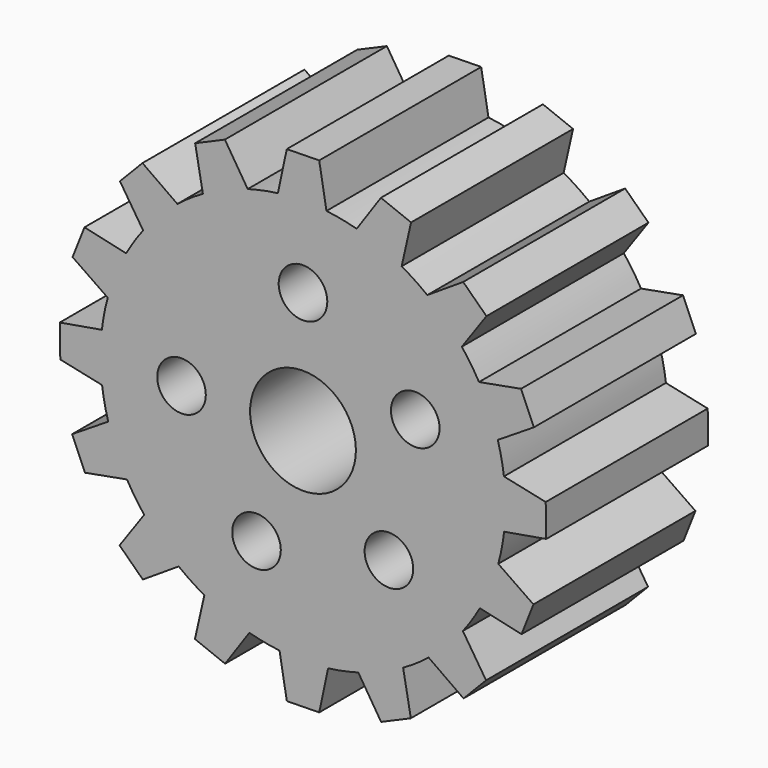
from build123d import *

# Parameters (mm, degrees)
F0_R     = 3
F0_R_2   = 6.530293
F1_DEPTH = 25


with BuildPart() as f1:
    # F0 (on Front) → F1 (new body)
    with BuildSketch(Plane.XZ):
        with BuildLine():
            ThreePointArc((24.831743, -2.895608), (24.9579, -1.450246), (25, 0))
            ThreePointArc((25, 0), (24.95158, 1.555208), (24.806506, 3.104392))
            ThreePointArc((24.806506, 3.104392), (24.498901, 4.980347), (24.04964, 6.827504))
            ThreePointArc((24.04964, 6.827504), (23.056544, 9.664149), (21.730224, 12.361123))
            ThreePointArc((21.730224, 12.361123), (20.728137, 13.976564), (19.606198, 15.51119))
            ThreePointArc((19.606198, 15.51119), (17.603159, 17.751867), (15.345712, 19.735986))
            ThreePointArc((15.345712, 19.735986), (13.801702, 20.844976), (12.177889, 21.833438))
            ThreePointArc((12.177889, 21.833438), (9.469853, 23.137024), (6.624954, 24.106223))
            ThreePointArc((6.624954, 24.106223), (4.774083, 24.539929), (2.895608, 24.831743))
            ThreePointArc((2.895608, 24.831743), (-0.105152, 24.999779), (-3.104392, 24.806506))
            ThreePointArc((-3.104392, 24.806506), (-4.980347, 24.498901), (-6.827504, 24.04964))
            ThreePointArc((-6.827504, 24.04964), (-9.664149, 23.056544), (-12.361123, 21.730224))
            ThreePointArc((-12.361123, 21.730224), (-13.976564, 20.728137), (-15.51119, 19.606198))
            ThreePointArc((-15.51119, 19.606198), (-17.751867, 17.603159), (-19.735986, 15.345712))
            ThreePointArc((-19.735986, 15.345712), (-20.844976, 13.801702), (-21.833438, 12.177889))
            ThreePointArc((-21.833438, 12.177889), (-23.137024, 9.469853), (-24.106223, 6.624954))
            ThreePointArc((-24.106223, 6.624954), (-24.539929, 4.774083), (-24.831743, 2.895608))
            ThreePointArc((-24.831743, 2.895608), (-24.999779, -0.105152), (-24.806506, -3.104392))
            ThreePointArc((-24.806506, -3.104392), (-24.498901, -4.980347), (-24.04964, -6.827504))
            ThreePointArc((-24.04964, -6.827504), (-23.056544, -9.664149), (-21.730224, -12.361123))
            ThreePointArc((-21.730224, -12.361123), (-20.728137, -13.976564), (-19.606198, -15.51119))
            ThreePointArc((-19.606198, -15.51119), (-17.603159, -17.751867), (-15.345712, -19.735986))
            ThreePointArc((-15.345712, -19.735986), (-13.801702, -20.844976), (-12.177889, -21.833438))
            ThreePointArc((-12.177889, -21.833438), (-9.469853, -23.137024), (-6.624954, -24.106223))
            ThreePointArc((-6.624954, -24.106223), (-4.774083, -24.539929), (-2.895608, -24.831743))
            ThreePointArc((-2.895608, -24.831743), (0.105152, -24.999779), (3.104392, -24.806506))
            ThreePointArc((3.104392, -24.806506), (4.980347, -24.498901), (6.827504, -24.04964))
            ThreePointArc((6.827504, -24.04964), (9.664149, -23.056544), (12.361123, -21.730224))
            ThreePointArc((12.361123, -21.730224), (13.976564, -20.728137), (15.51119, -19.606198))
            ThreePointArc((15.51119, -19.606198), (17.751867, -17.603159), (19.735986, -15.345712))
            ThreePointArc((19.735986, -15.345712), (20.844976, -13.801702), (21.833438, -12.177889))
            ThreePointArc((21.833438, -12.177889), (23.137024, -9.469853), (24.106223, -6.624954))
            ThreePointArc((24.106223, -6.624954), (24.539929, -4.774083), (24.831743, -2.895608))
        make_face()
        with Locations((-5.740251, -13.858193)):
            Circle(F0_R, mode=Mode.SUBTRACT)
        with Locations((10.606602, -10.606602)):
            Circle(F0_R, mode=Mode.SUBTRACT)
        with Locations((-15, 0)):
            Circle(F0_R, mode=Mode.SUBTRACT)
        Circle(F0_R_2, mode=Mode.SUBTRACT)
        with Locations((13.858193, 5.740251)):
            Circle(F0_R, mode=Mode.SUBTRACT)
        with Locations((0, 15)):
            Circle(F0_R, mode=Mode.SUBTRACT)
        with BuildLine():
            ThreePointArc((24.806506, 3.104392), (24.95158, 1.555208), (25, 0))
            ThreePointArc((25, 0), (24.9579, -1.450246), (24.831743, -2.895608))
            Line((24.831743, -2.895608), (30.030659, -1.999731))
            Line((30.030659, -1.999731), (29.965095, 1.999731))
            Line((29.965095, 1.999731), (24.806506, 3.104392))
        make_face()
        with BuildLine():
            ThreePointArc((21.730224, 12.361123), (23.056544, 9.664149), (24.04964, 6.827504))
            Line((24.04964, 6.827504), (28.509975, 9.644725))
            Line((28.509975, 9.644725), (26.918874, 13.314656))
            Line((26.918874, 13.314656), (21.730224, 12.361123))
        make_face()
        with BuildLine():
            Line((28.449402, -9.619635), (24.106223, -6.624954))
            ThreePointArc((24.106223, -6.624954), (23.137024, -9.469853), (21.833438, -12.177889))
            Line((21.833438, -12.177889), (26.979447, -13.339746))
            Line((26.979447, -13.339746), (28.449402, -9.619635))
        make_face()
        with BuildLine():
            ThreePointArc((15.345712, 19.735986), (17.603159, 17.751867), (19.606198, 15.51119))
            Line((19.606198, 15.51119), (22.648906, 19.820859))
            Line((22.648906, 19.820859), (19.774499, 22.602546))
            Line((19.774499, 22.602546), (15.345712, 19.735986))
        make_face()
        with BuildLine():
            Line((22.602546, -19.774499), (19.735986, -15.345712))
            ThreePointArc((19.735986, -15.345712), (17.751867, -17.603159), (15.51119, -19.606198))
            Line((15.51119, -19.606198), (19.820859, -22.648906))
            Line((19.820859, -22.648906), (22.602546, -19.774499))
        make_face()
        with BuildLine():
            ThreePointArc((6.624954, 24.106223), (9.469853, 23.137024), (12.177889, 21.833438))
            Line((12.177889, 21.833438), (13.339746, 26.979447))
            Line((13.339746, 26.979447), (9.619635, 28.449402))
            Line((9.619635, 28.449402), (6.624954, 24.106223))
        make_face()
        with BuildLine():
            Line((13.314656, -26.918874), (12.361123, -21.730224))
            ThreePointArc((12.361123, -21.730224), (9.664149, -23.056544), (6.827504, -24.04964))
            Line((6.827504, -24.04964), (9.644725, -28.509975))
            Line((9.644725, -28.509975), (13.314656, -26.918874))
        make_face()
        with BuildLine():
            ThreePointArc((-3.104392, 24.806506), (-0.105152, 24.999779), (2.895608, 24.831743))
            Line((2.895608, 24.831743), (1.999731, 30.030659))
            Line((1.999731, 30.030659), (-1.999731, 29.965095))
            Line((-1.999731, 29.965095), (-3.104392, 24.806506))
        make_face()
        with BuildLine():
            Line((1.999731, -29.965095), (3.104392, -24.806506))
            ThreePointArc((3.104392, -24.806506), (0.105152, -24.999779), (-2.895608, -24.831743))
            Line((-2.895608, -24.831743), (-1.999731, -30.030659))
            Line((-1.999731, -30.030659), (1.999731, -29.965095))
        make_face()
        with BuildLine():
            ThreePointArc((-12.361123, 21.730224), (-9.664149, 23.056544), (-6.827504, 24.04964))
            Line((-6.827504, 24.04964), (-9.644725, 28.509975))
            Line((-9.644725, 28.509975), (-13.314656, 26.918874))
            Line((-13.314656, 26.918874), (-12.361123, 21.730224))
        make_face()
        with BuildLine():
            Line((-9.619635, -28.449402), (-6.624954, -24.106223))
            ThreePointArc((-6.624954, -24.106223), (-9.469853, -23.137024), (-12.177889, -21.833438))
            Line((-12.177889, -21.833438), (-13.339746, -26.979447))
            Line((-13.339746, -26.979447), (-9.619635, -28.449402))
        make_face()
        with BuildLine():
            ThreePointArc((-19.735986, 15.345712), (-17.751867, 17.603159), (-15.51119, 19.606198))
            Line((-15.51119, 19.606198), (-19.820859, 22.648906))
            Line((-19.820859, 22.648906), (-22.602546, 19.774499))
            Line((-22.602546, 19.774499), (-19.735986, 15.345712))
        make_face()
        with BuildLine():
            Line((-19.774499, -22.602546), (-15.345712, -19.735986))
            ThreePointArc((-15.345712, -19.735986), (-17.603159, -17.751867), (-19.606198, -15.51119))
            Line((-19.606198, -15.51119), (-22.648906, -19.820859))
            Line((-22.648906, -19.820859), (-19.774499, -22.602546))
        make_face()
        with BuildLine():
            ThreePointArc((-24.106223, 6.624954), (-23.137024, 9.469853), (-21.833438, 12.177889))
            Line((-21.833438, 12.177889), (-26.979447, 13.339746))
            Line((-26.979447, 13.339746), (-28.449402, 9.619635))
            Line((-28.449402, 9.619635), (-24.106223, 6.624954))
        make_face()
        with BuildLine():
            Line((-26.918874, -13.314656), (-21.730224, -12.361123))
            ThreePointArc((-21.730224, -12.361123), (-23.056544, -9.664149), (-24.04964, -6.827504))
            Line((-24.04964, -6.827504), (-28.509975, -9.644725))
            Line((-28.509975, -9.644725), (-26.918874, -13.314656))
        make_face()
        with BuildLine():
            ThreePointArc((-24.806506, -3.104392), (-24.999779, -0.105152), (-24.831743, 2.895608))
            Line((-24.831743, 2.895608), (-30.030659, 1.999731))
            Line((-30.030659, 1.999731), (-29.965095, -1.999731))
            Line((-29.965095, -1.999731), (-24.806506, -3.104392))
        make_face()
    extrude(amount=F1_DEPTH)


solid = f1.part
